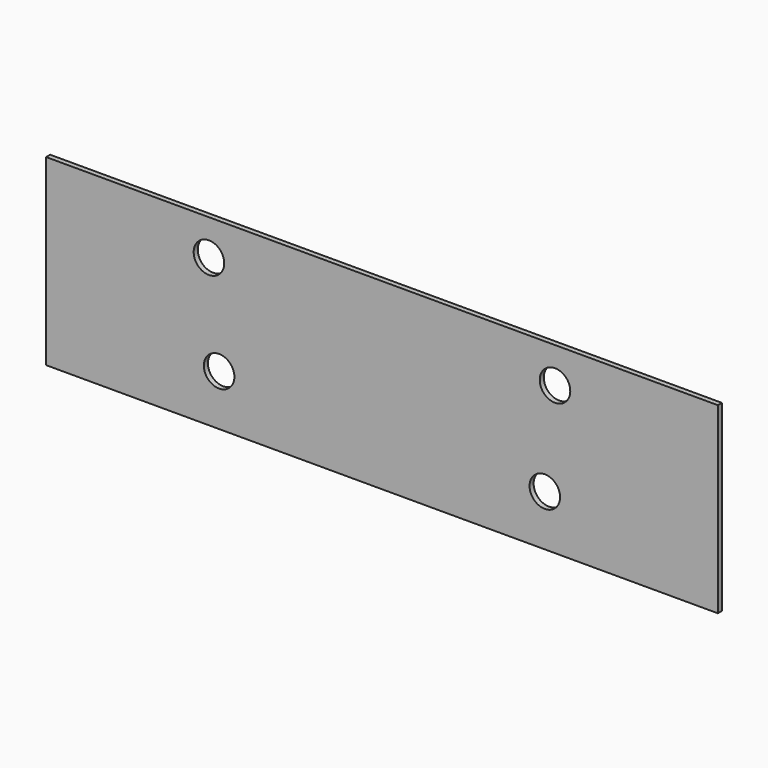
from build123d import *

# Parameters (mm, degrees)
F0_W     = 66
F0_H     = 8
F0_R     = 1.5
F0_H_2   = 10
F1_DEPTH = 0.5


with BuildPart() as f1:
    # F0 (on Front) → F1 (new body)
    with BuildSketch(Plane.XZ):
        with Locations((9.124033, 4)):
            Rectangle(F0_W, F0_H)
        with Locations((-7.875967, 4.5)):
            Circle(F0_R, mode=Mode.SUBTRACT)
        with Locations((26.124033, 4.5)):
            Circle(F0_R, mode=Mode.SUBTRACT)
        with Locations((9.124033, -5)):
            Rectangle(F0_W, F0_H_2)
        with Locations((-6.875967, -5)):
            Circle(F0_R, mode=Mode.SUBTRACT)
        with Locations((25.124033, -5)):
            Circle(F0_R, mode=Mode.SUBTRACT)
    extrude(amount=F1_DEPTH)


solid = f1.part
